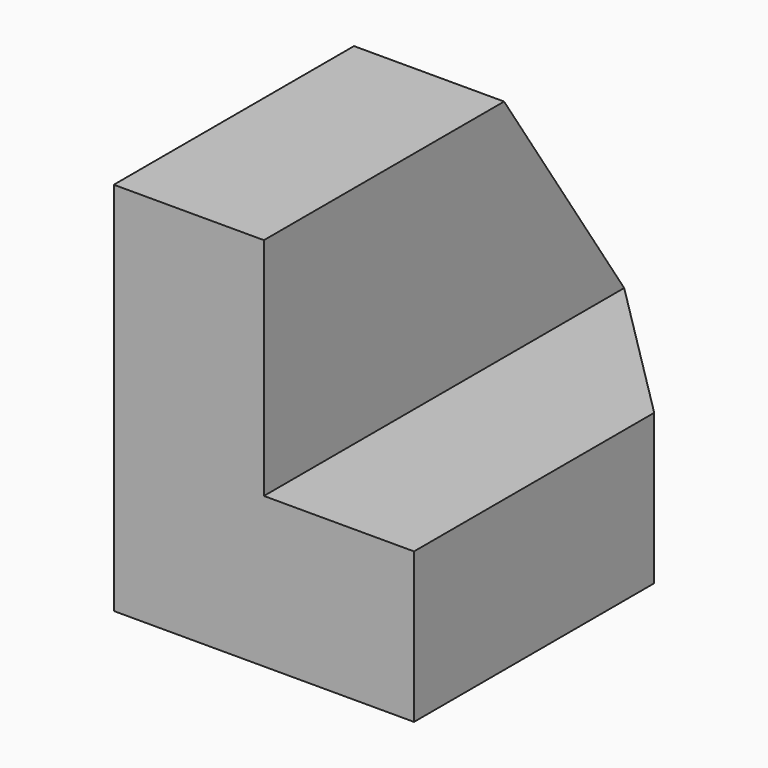
from build123d import *

# Parameters (mm, degrees)
F1_DEPTH = 38.1
F3_DEPTH = 12.701
F5_DEPTH = 12.701


with BuildPart() as f1:
    # F0 (on Front) → F1 (new body)
    with BuildSketch(Plane.XZ):
        Polygon((41.351927, 20.647113), (41.351927, 39.697113), (28.651927, 39.697113), (28.651927, 7.947113), (54.051927, 7.947113), (54.051927, 20.647113), align=None)
    extrude(amount=F1_DEPTH)

    # F2 (on face) → F3 (cut, through all)
    with BuildSketch(Plane.XY.offset(20.647113)):
        Polygon((54.051927, 0), (41.351927, 0), (54.051927, -12.7), align=None)
    extrude(amount=-F3_DEPTH, mode=Mode.SUBTRACT)

    # F4 (on face) → F5 (cut, through all)
    with BuildSketch(Plane.YZ.offset(41.351927)):
        Polygon((0, 39.697113), (-12.7, 39.697113), (0, 20.647113), align=None)
    extrude(amount=-F5_DEPTH, mode=Mode.SUBTRACT)


solid = f1.part
